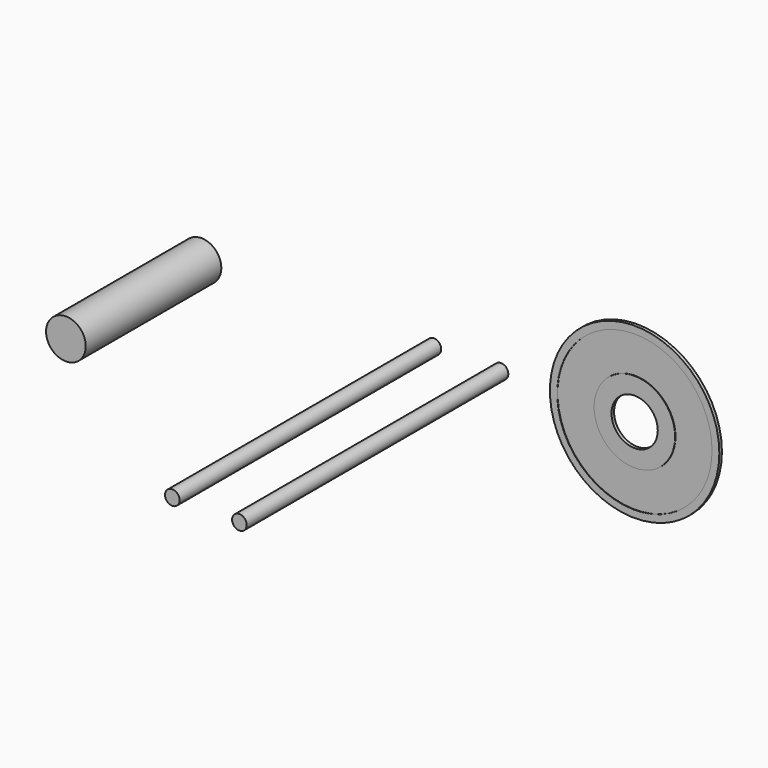
from build123d import *

# Parameters (mm, degrees)
F0_R     = 6.0725998207
F0_R_2   = 3.4715977251
F1_DEPTH = 0.2413
F0_R_3   = 11.6058825816
F0_R_4   = 6.0796561399
F2_DEPTH = 0.18214
F0_R_5   = 12.6996477949
F0_R_6   = 11.6071716778
F3_DEPTH = 0.242
F4_W     = 2.9750799122
F4_H     = 25.4
F6_W     = 1.0922
F6_H     = 49.0303058
F8_W     = 1.094782725
F8_H     = 49.022


with BuildPart() as f1:
    # F0 (on Front) → F1 (new body, symmetric)
    with BuildSketch(Plane.XZ):
        Circle(F0_R)
        Circle(F0_R_2, mode=Mode.SUBTRACT)
    extrude(amount=F1_DEPTH, both=True)


with BuildPart() as f2:
    # F0 (on Front) → F2 (new body, symmetric)
    with BuildSketch(Plane.XZ):
        Circle(F0_R_3)
        Circle(F0_R_4, mode=Mode.SUBTRACT)
    extrude(amount=F2_DEPTH, both=True)


with BuildPart() as f3:
    # F0 (on Front) → F3 (new body, symmetric)
    with BuildSketch(Plane.XZ):
        Circle(F0_R_5)
        Circle(F0_R_6, mode=Mode.SUBTRACT)
    extrude(amount=F3_DEPTH, both=True)


with BuildPart() as f5:
    # F4 (on Top) → F5 (revolve)
    with BuildSketch(Plane.XY):
        with Locations((-66.6152926774, -12.7)):
            Rectangle(F4_W, F4_H)
    revolve(axis=Axis((-65.1277527213, -12.7, 0), (0, -1, 0)))


with BuildPart() as f7:
    # F6 (on Top) → F7 (revolve)
    with BuildSketch(Plane.XY):
        with Locations((-29.7323461086, -24.5151529)):
            Rectangle(F6_W, F6_H)
    revolve(axis=Axis((-30.2784461086, -24.5151529, 0), (0, 1, 0)))


with BuildPart() as f9:
    # F8 (on Top) → F9 (revolve)
    with BuildSketch(Plane.XY):
        with Locations((-19.6746652946, -24.511)):
            Rectangle(F8_W, F8_H)
    revolve(axis=Axis((-20.2220566571, -24.511, 0), (0, 1, 0)))


solid = Compound([f1.part, f2.part, f3.part, f5.part, f7.part, f9.part])
